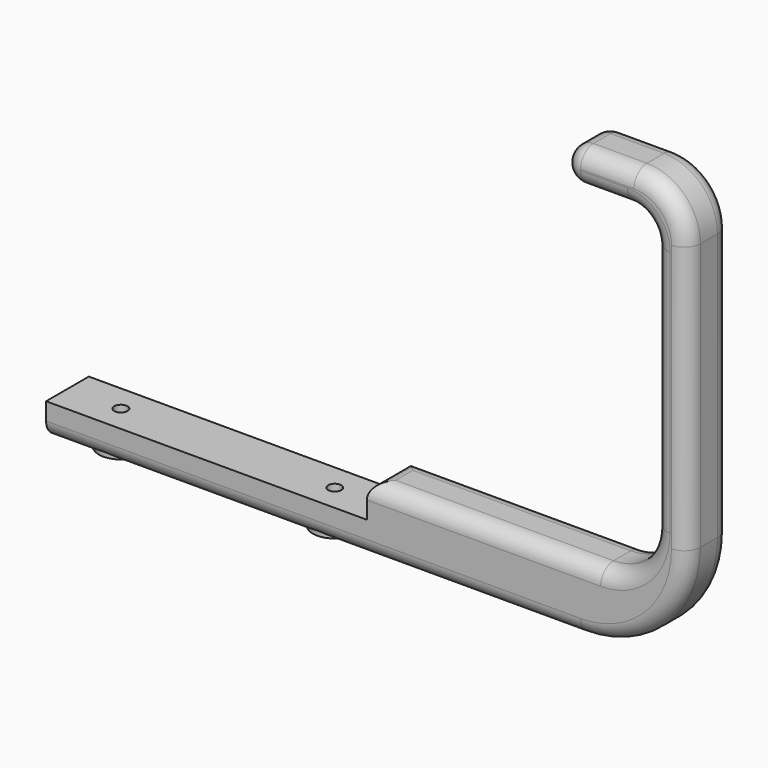
from build123d import *

# Parameters (mm, degrees)
F1_DEPTH = 6.35
F2_R     = 1.575
F3_DEPTH = 7.9385
F4_R     = 3.81
F5_R     = 5.207
F5_R_2   = 1.642683843
F5_R_3   = 1.6124121995
F6_DEPTH = 7.9375


with BuildPart() as f1:
    # F0 (on Front) → F1 (new body, symmetric)
    with BuildSketch(Plane.XZ):
        with BuildLine():
            Line((-18.0305134643, 25.4818645348), (-18.0305134643, 17.5443645348))
            Line((-18.0305134643, 17.5443645348), (108.9694865357, 17.5443645348))
            ThreePointArc((108.9694865357, 17.5443645348), (126.9299987779, 24.9838522926), (134.3694865357, 42.9443645348))
            Line((134.3694865357, 42.9443645348), (134.3694865357, 106.4443645348))
            ThreePointArc((134.3694865357, 106.4443645348), (130.6497426568, 115.4246206558), (121.6694865357, 119.1443645348))
            Line((121.6694865357, 119.1443645348), (108.9694865357, 119.1443645348))
            ThreePointArc((108.9694865357, 119.1443645348), (105.0007365357, 115.1756145348), (108.9694865357, 111.2068645348))
            Line((108.9694865357, 111.2068645348), (120.0819865357, 111.2068645348))
            ThreePointArc((120.0819865357, 111.2068645348), (124.5721145963, 109.3469925953), (126.4319865357, 104.8568645348))
            Line((126.4319865357, 104.8568645348), (126.4319865357, 46.1193645348))
            ThreePointArc((126.4319865357, 46.1193645348), (122.7122426568, 37.1391084137), (113.7319865357, 33.4193645348))
            Line((113.7319865357, 33.4193645348), (58.1694865357, 33.4193645348))
            Line((58.1694865357, 33.4193645348), (58.1694865357, 25.4818645348))
            Line((58.1694865357, 25.4818645348), (-18.0305134643, 25.4818645348))
        make_face()
    extrude(amount=F1_DEPTH, both=True)

    # F2 (on face) → F3 (cut, through all)
    with BuildSketch(Plane.XY.offset(25.4818645348)):
        with Locations((45.4694865357, 0)):
            Circle(F2_R)
        with Locations((-5.3305134643, 0)):
            Circle(F2_R)
    extrude(amount=-F3_DEPTH, mode=Mode.SUBTRACT)

    # F4
    f4_edges = [f1.edges().sort_by_distance(p)[0] for p in [
        (126.431987, 6.35, 75.488115),
        (126.431987, -6.35, 75.488115),
        (124.572115, -6.35, 109.346993),
        (124.572115, 6.35, 109.346993),
        (122.712243, -6.35, 37.139108),
        (122.712243, 6.35, 37.139108),
        (85.950737, 6.35, 33.419365),
        (85.950737, -6.35, 33.419365),
        (58.169487, 0, 33.419365),
        (114.525737, 6.35, 111.206865),
        (114.525737, -6.35, 111.206865),
        (105.000737, -6.35, 115.175615),
        (105.000737, 6.35, 115.175615),
        (115.319487, 6.35, 119.144365),
        (115.319487, -6.35, 119.144365),
        (130.649743, 6.35, 115.424621),
        (134.369487, 6.35, 74.694365),
        (134.369487, -6.35, 74.694365),
        (130.649743, -6.35, 115.424621),
        (126.929999, 6.35, 24.983852),
        (126.929999, -6.35, 24.983852),
        (45.469487, 6.35, 17.544365),
        (45.469487, -6.35, 17.544365),
    ]]
    fillet(f4_edges, radius=F4_R)

    # F5 (on face) → F6 (join, through all)
    with BuildSketch(Plane(origin=(0, 0, 17.5443645348), x_dir=(1, 0, 0), z_dir=(0, 0, -1))):
        with Locations((-5.3305134643, 0)):
            Circle(F5_R)
        with Locations((-5.3305134643, 0)):
            Circle(F5_R_2, mode=Mode.SUBTRACT)
        with Locations((45.4694865357, 0)):
            Circle(F5_R)
        with Locations((45.4694865357, 0)):
            Circle(F5_R_3, mode=Mode.SUBTRACT)
    extrude(amount=-F6_DEPTH)


solid = f1.part
